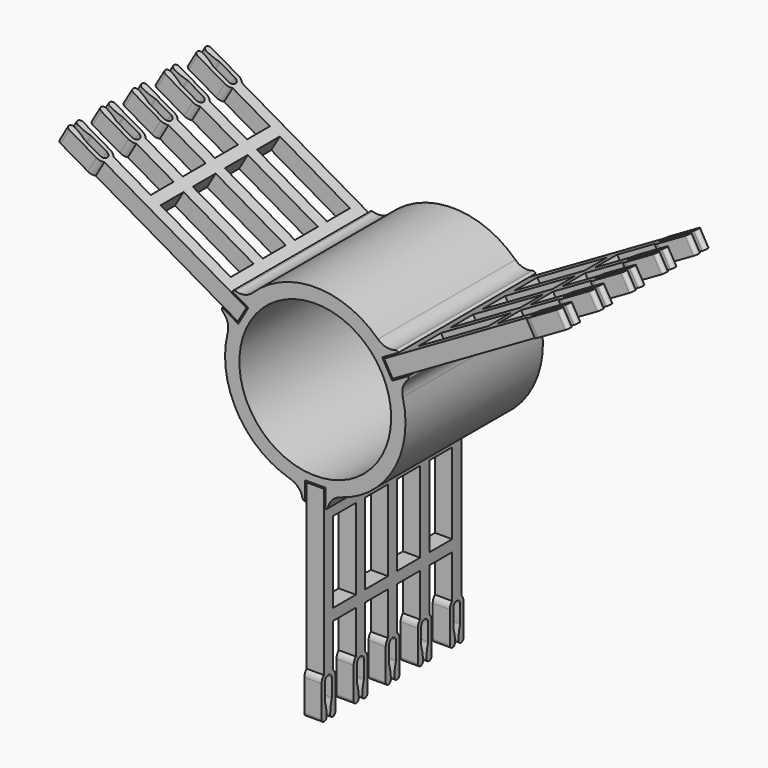
from build123d import *

# Parameters (mm, degrees)
F0_W     = 10
F0_H     = 28.25
F2_DEPTH = 3
F3_COUNT = 3
F1_R     = 26.5
F4_DEPTH = 60


with BuildPart() as f2:
    # F0 (on Right) → F2 (new body, symmetric)
    with BuildSketch(Plane.YZ):
        with BuildLine():
            Line((0, -29.5), (-60, -29.5))
            Line((-60, -29.5), (-60, -86.7639320225))
            ThreePointArc((-60, -86.7639320225), (-60.7386127875, -87.7752551286), (-61, -89))
            Line((-61, -89), (-61, -100))
            ThreePointArc((-61, -100), (-59.875, -101.125), (-58.75, -100))
            ThreePointArc((-58.75, -100), (-58.9219475158, -97.6945421274), (-59.4339853301, -95.4400977995))
            ThreePointArc((-59.4339853301, -95.4400977995), (-59.4834045293, -95.2225106794), (-59.5, -95))
            Line((-59.5, -95), (-59.5, -89))
            ThreePointArc((-59.5, -89), (-58, -87.5), (-56.5, -89))
            Line((-56.5, -89), (-56.5, -95))
            ThreePointArc((-56.5, -95), (-56.5165954707, -95.2225106794), (-56.5660146699, -95.4400977995))
            ThreePointArc((-56.5660146699, -95.4400977995), (-57.0780524842, -97.6945421274), (-57.25, -100))
            ThreePointArc((-57.25, -100), (-56.125, -101.125), (-55, -100))
            Line((-55, -100), (-55, -89))
            ThreePointArc((-55, -89), (-55.2613872125, -87.7752551286), (-56, -86.7639320225))
            Line((-56, -86.7639320225), (-56, -71.75))
            Line((-56, -71.75), (-46, -71.75))
            Line((-46, -71.75), (-46, -86.7639320225))
            ThreePointArc((-46, -86.7639320225), (-46.7386127875, -87.7752551286), (-47, -89))
            Line((-47, -89), (-47, -100))
            ThreePointArc((-47, -100), (-45.875, -101.125), (-44.75, -100))
            ThreePointArc((-44.75, -100), (-44.9219475158, -97.6945421274), (-45.4339853301, -95.4400977995))
            ThreePointArc((-45.4339853301, -95.4400977995), (-45.4834045293, -95.2225106794), (-45.5, -95))
            Line((-45.5, -95), (-45.5, -89))
            ThreePointArc((-45.5, -89), (-44, -87.5), (-42.5, -89))
            Line((-42.5, -89), (-42.5, -95))
            ThreePointArc((-42.5, -95), (-42.5165954707, -95.2225106794), (-42.5660146699, -95.4400977995))
            ThreePointArc((-42.5660146699, -95.4400977995), (-43.0780524842, -97.6945421274), (-43.25, -100))
            ThreePointArc((-43.25, -100), (-42.125, -101.125), (-41, -100))
            Line((-41, -100), (-41, -89))
            ThreePointArc((-41, -89), (-41.2613872125, -87.7752551286), (-42, -86.7639320225))
            Line((-42, -86.7639320225), (-42, -71.75))
            Line((-42, -71.75), (-32, -71.75))
            Line((-32, -71.75), (-32, -86.7639320225))
            ThreePointArc((-32, -86.7639320225), (-32.7386127875, -87.7752551286), (-33, -89))
            Line((-33, -89), (-33, -100))
            ThreePointArc((-33, -100), (-31.875, -101.125), (-30.75, -100))
            ThreePointArc((-30.75, -100), (-30.9219475158, -97.6945421274), (-31.4339853301, -95.4400977995))
            ThreePointArc((-31.4339853301, -95.4400977995), (-31.4834045293, -95.2225106794), (-31.5, -95))
            Line((-31.5, -95), (-31.5, -89))
            ThreePointArc((-31.5, -89), (-30, -87.5), (-28.5, -89))
            Line((-28.5, -89), (-28.5, -95))
            ThreePointArc((-28.5, -95), (-28.5165954707, -95.2225106794), (-28.5660146699, -95.4400977995))
            ThreePointArc((-28.5660146699, -95.4400977995), (-29.0780524842, -97.6945421274), (-29.25, -100))
            ThreePointArc((-29.25, -100), (-28.125, -101.125), (-27, -100))
            Line((-27, -100), (-27, -89))
            ThreePointArc((-27, -89), (-27.2613872125, -87.7752551286), (-28, -86.7639320225))
            Line((-28, -86.7639320225), (-28, -71.75))
            Line((-28, -71.75), (-18, -71.75))
            Line((-18, -71.75), (-18, -86.7639320225))
            ThreePointArc((-18, -86.7639320225), (-18.7386127875, -87.7752551286), (-19, -89))
            Line((-19, -89), (-19, -100))
            ThreePointArc((-19, -100), (-17.875, -101.125), (-16.75, -100))
            ThreePointArc((-16.75, -100), (-16.9219475158, -97.6945421274), (-17.4339853301, -95.4400977995))
            ThreePointArc((-17.4339853301, -95.4400977995), (-17.4834045293, -95.2225106794), (-17.5, -95))
            Line((-17.5, -95), (-17.5, -89))
            ThreePointArc((-17.5, -89), (-16, -87.5), (-14.5, -89))
            Line((-14.5, -89), (-14.5, -95))
            ThreePointArc((-14.5, -95), (-14.5165954707, -95.2225106794), (-14.5660146699, -95.4400977995))
            ThreePointArc((-14.5660146699, -95.4400977995), (-15.0780524842, -97.6945421274), (-15.25, -100))
            ThreePointArc((-15.25, -100), (-14.125, -101.125), (-13, -100))
            Line((-13, -100), (-13, -89))
            ThreePointArc((-13, -89), (-13.2613872125, -87.7752551286), (-14, -86.7639320225))
            Line((-14, -86.7639320225), (-14, -71.75))
            Line((-14, -71.75), (-4, -71.75))
            Line((-4, -71.75), (-4, -86.7639320225))
            ThreePointArc((-4, -86.7639320225), (-4.7386127875, -87.7752551286), (-5, -89))
            Line((-5, -89), (-5, -100))
            ThreePointArc((-5, -100), (-3.875, -101.125), (-2.75, -100))
            ThreePointArc((-2.75, -100), (-2.9219475158, -97.6945421274), (-3.4339853301, -95.4400977995))
            ThreePointArc((-3.4339853301, -95.4400977995), (-3.4834045293, -95.2225106794), (-3.5, -95))
            Line((-3.5, -95), (-3.5, -89))
            ThreePointArc((-3.5, -89), (-2, -87.5), (-0.5, -89))
            Line((-0.5, -89), (-0.5, -95))
            ThreePointArc((-0.5, -95), (-0.5165954707, -95.2225106794), (-0.5660146699, -95.4400977995))
            ThreePointArc((-0.5660146699, -95.4400977995), (-1.0780524842, -97.6945421274), (-1.25, -100))
            ThreePointArc((-1.25, -100), (-0.125, -101.125), (1, -100))
            Line((1, -100), (1, -89))
            ThreePointArc((1, -89), (0.7386127875, -87.7752551286), (0, -86.7639320225))
            Line((0, -86.7639320225), (0, -29.5))
        make_face()
        with Locations((-51, -53.625)):
            Rectangle(F0_W, F0_H, mode=Mode.SUBTRACT)
        with Locations((-37, -53.625)):
            Rectangle(F0_W, F0_H, mode=Mode.SUBTRACT)
        with Locations((-23, -53.625)):
            Rectangle(F0_W, F0_H, mode=Mode.SUBTRACT)
        with Locations((-9, -53.625)):
            Rectangle(F0_W, F0_H, mode=Mode.SUBTRACT)
    extrude(amount=F2_DEPTH, both=True)


with BuildPart() as f3_1:
    # F3: instance of F2
    add(f2.part.rotate(Axis((0, -30, 0), (0, -1, 0)), 1 * 360 / F3_COUNT))


with BuildPart() as f3_2:
    # F3: instance of F2
    add(f2.part.rotate(Axis((0, -30, 0), (0, -1, 0)), 2 * 360 / F3_COUNT))


with BuildPart() as f4:
    # F1 (on Front) → F4 (new body, through all)
    with BuildSketch(Plane.XZ):
        with BuildLine():
            Line((-3.5, -35.5), (-3.5, -29))
            Line((-3.5, -29), (3.5, -29))
            Line((3.5, -29), (3.5, -35.5))
            ThreePointArc((3.5, -35.5), (4.1239137704, -35.2814931907), (4.4751687263, -34.7214632141))
            ThreePointArc((4.4751687263, -34.7214632141), (5.9671371735, -31.9272901361), (8.6739921108, -30.2822036989))
            ThreePointArc((8.6739921108, -30.2822036989), (27.2798002192, -15.75), (30.5621537412, 7.6292043293))
            ThreePointArc((30.5621537412, 7.6292043293), (30.6334129186, 10.7959526879), (32.3072535631, 13.4851218038))
            ThreePointArc((32.3072535631, 13.4851218038), (32.6166262718, 14.0693325071), (32.4939018343, 14.7189110868))
            Line((32.4939018343, 14.7189110868), (26.8647367097, 11.4689110868))
            Line((26.8647367097, 11.4689110868), (23.3647367097, 17.5310889132))
            Line((23.3647367097, 17.5310889132), (28.9939018343, 20.7810889132))
            ThreePointArc((28.9939018343, 20.7810889132), (28.4927125013, 21.2121606836), (27.8320848368, 21.2363414103))
            ThreePointArc((27.8320848368, 21.2363414103), (24.6662757451, 21.1313374482), (21.8881616304, 22.6529993696))
            ThreePointArc((21.8881616304, 22.6529993696), (0, 31.5), (-21.8881616304, 22.6529993696))
            ThreePointArc((-21.8881616304, 22.6529993696), (-24.6662757451, 21.1313374482), (-27.8320848368, 21.2363414103))
            ThreePointArc((-27.8320848368, 21.2363414103), (-28.4927125013, 21.2121606836), (-28.9939018343, 20.7810889132))
            Line((-28.9939018343, 20.7810889132), (-23.3647367097, 17.5310889132))
            Line((-23.3647367097, 17.5310889132), (-26.8647367097, 11.4689110868))
            Line((-26.8647367097, 11.4689110868), (-32.4939018343, 14.7189110868))
            ThreePointArc((-32.4939018343, 14.7189110868), (-32.6166262718, 14.0693325071), (-32.3072535631, 13.4851218038))
            ThreePointArc((-32.3072535631, 13.4851218038), (-30.6334129186, 10.7959526879), (-30.5621537412, 7.6292043293))
            ThreePointArc((-30.5621537412, 7.6292043293), (-27.2798002192, -15.75), (-8.6739921108, -30.2822036989))
            ThreePointArc((-8.6739921108, -30.2822036989), (-5.9671371735, -31.9272901361), (-4.4751687263, -34.7214632141))
            ThreePointArc((-4.4751687263, -34.7214632141), (-4.1239137704, -35.2814931907), (-3.5, -35.5))
        make_face()
        Circle(F1_R, mode=Mode.SUBTRACT)
    extrude(amount=F4_DEPTH)


solid = Compound([f2.part, f3_1.part, f3_2.part, f4.part])
